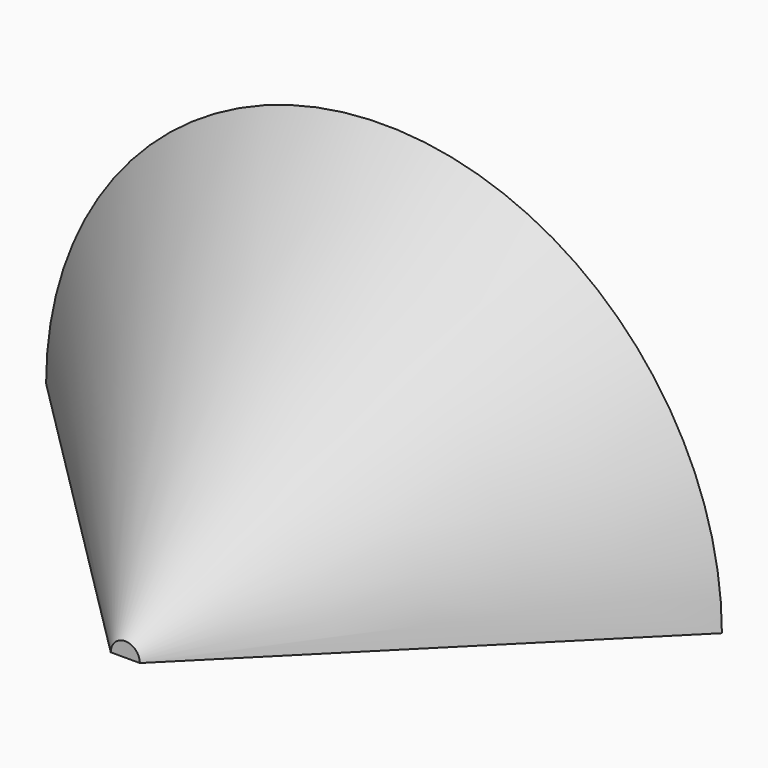
from build123d import *

# Parameters (mm, degrees)
F0_R     = 25.4
F1_DEPTH = 24.3078
F1_TAPER = 45
F3_W     = 50.8
F3_H     = 26.1644069105
F4_DEPTH = 28.448
F2_R     = 22.225
F5_DEPTH = 18.034
F5_TAPER = 45


with BuildPart() as f1:
    # F0 (on Front) → F1 (new body)
    with BuildSketch(Plane.XZ):
        Circle(F0_R)
    extrude(amount=F1_DEPTH, taper=F1_TAPER)

    # F3 (on face) → F4 (cut)
    with BuildSketch(Plane(origin=(0, 0, 0), x_dir=(-1, 0, 0), z_dir=(0, 1, 0))):
        with Locations((0, -13.0822034553)):
            Rectangle(F3_W, F3_H)
    extrude(amount=-F4_DEPTH, mode=Mode.SUBTRACT)

    # F2 (on face) → F5 (cut)
    with BuildSketch(Plane(origin=(0, 0, 0), x_dir=(-1, 0, 0), z_dir=(0, 1, 0))):
        Circle(F2_R)
    extrude(amount=-F5_DEPTH, taper=F5_TAPER, mode=Mode.SUBTRACT)


solid = f1.part
